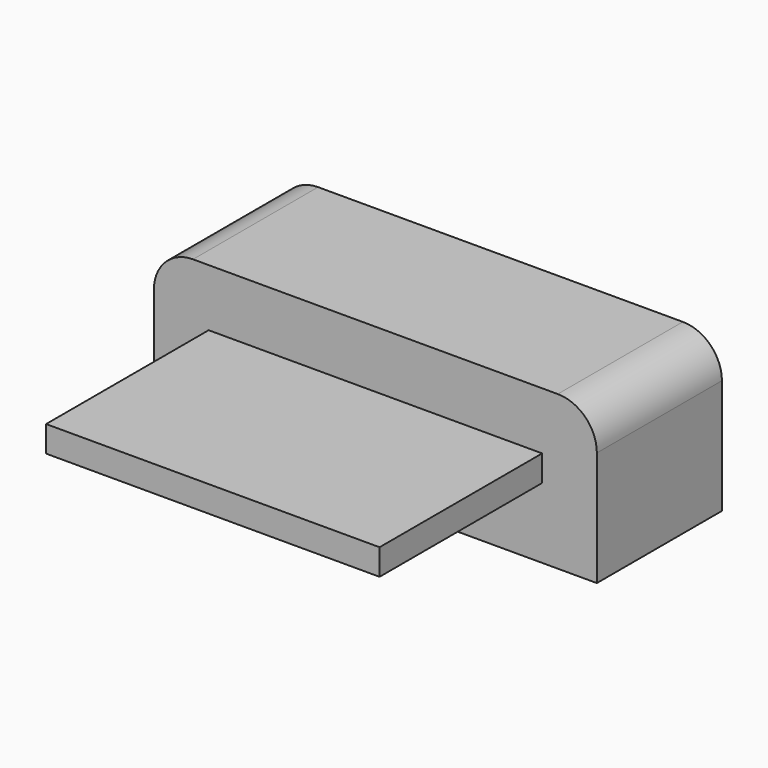
from build123d import *

# Parameters (mm, degrees)
BOX001_W                  = 6.4
BOX001_H                  = 0.5
BOX001_DEPTH              = 6.9
BOX067_W                  = 8.5
BOX067_H                  = 2.95
BOX067_DEPTH              = 3
FILLET013_R               = 0.75
FUSION051_PLACEMENT_ANGLE = 90


with BuildPart() as cube043:
    # Box001 → Box001 (new body)
    with BuildSketch(Plane(origin=(-3.2, 1.35, 0), x_dir=(1, 0, 0), z_dir=(0, 0, 1))):
        with Locations((3.2, 0.25)):
            Rectangle(BOX001_W, BOX001_H)
    extrude(amount=BOX001_DEPTH)


with BuildPart() as body006:
    # Box067 → Box067 (new body)
    with BuildSketch(Plane(origin=(-4.25, 0, 0), x_dir=(1, 0, 0), z_dir=(0, 0, 1))):
        with Locations((4.25, 1.475)):
            Rectangle(BOX067_W, BOX067_H)
    extrude(amount=BOX067_DEPTH)

    # Fillet013
    fillet013_edges = [body006.edges().sort_by_distance(p)[0] for p in [
        (-4.25, 2.95, 1.5),
        (4.25, 2.95, 1.5),
    ]]
    fillet(fillet013_edges, radius=FILLET013_R)

    # Fusion051: union Cube043
    add(cube043.part)


with BuildPart() as body006_1:
    # Fusion051 placement: moved
    add(body006.part.rotate(Axis((0, 0, 0), (1, 0, 0)), FUSION051_PLACEMENT_ANGLE))


solid = body006_1.part
